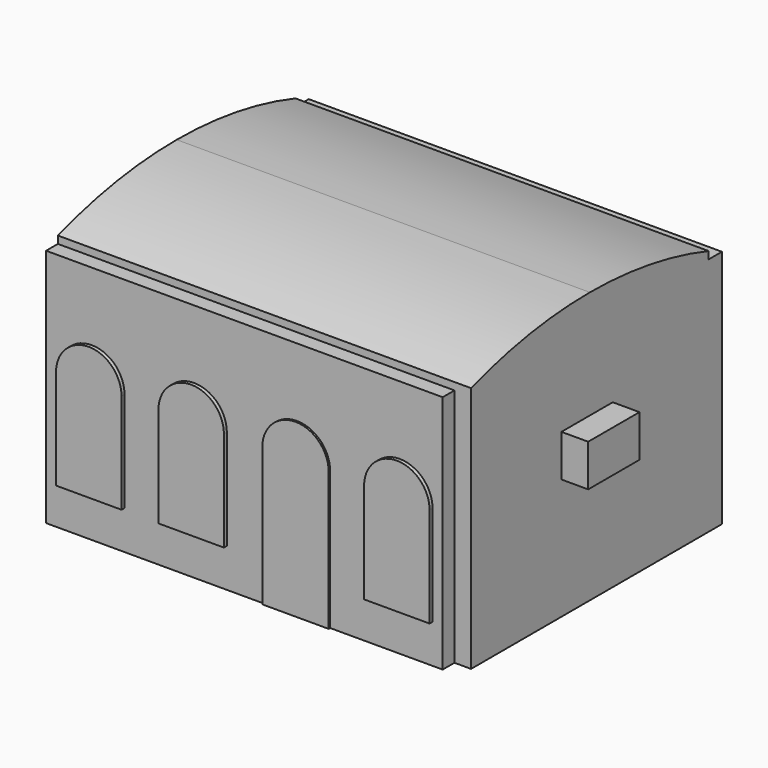
from build123d import *

# Parameters (mm, degrees)
F0_W      = 5689.6
F0_H      = 4521.2
F1_DEPTH  = 3302
F2_W      = 5689.6
F2_H      = 4089.4
F3_DEPTH  = 101.6
F5_DEPTH  = 5689.6
F6_W      = 882.65
F6_H      = 577.85
F7_DEPTH  = 368.3
F8_W      = 228.6
F8_H      = 3302
F9_DEPTH  = 203.2
F8_W_2    = 901.7
F8_H_2    = 1377.95
F10_DEPTH = 50.8
F8_W_3    = 914.4
F8_H_3    = 1905
F11_DEPTH = 25.4


with BuildPart() as f1:
    # F0 (on Top) → F1 (new body)
    with BuildSketch(Plane.XY):
        with Locations((134.867244, -15.715256)):
            Rectangle(F0_W, F0_H)
        with Locations((134.867244, -15.715256)):
            Rectangle(F0_W, F0_H)
    extrude(amount=F1_DEPTH)

    # F2 (on face) → F3 (join)
    with BuildSketch(Plane.XY.offset(3302)):
        with Locations((134.867244, -28.415256)):
            Rectangle(F2_W, F2_H)
    extrude(amount=F3_DEPTH)

    # F4 (on face) → F5 (join, through all)
    with BuildSketch(Plane.YZ.offset(2979.667244)):
        with BuildLine():
            Line((-28.415256, 3403.6), (2016.284744, 3403.6))
            ThreePointArc((2016.284744, 3403.6), (1007.179999, 3650.718695), (-28.415256, 3733.8))
            Line((-28.415256, 3733.8), (-28.415256, 3403.6))
        make_face()
        with BuildLine():
            Line((-28.415256, 3403.6), (-28.415256, 3733.8))
            ThreePointArc((-28.415256, 3733.8), (-1064.010511, 3650.718695), (-2073.115256, 3403.6))
            Line((-2073.115256, 3403.6), (-28.415256, 3403.6))
        make_face()
    extrude(amount=-F5_DEPTH)

    # F6 (on face) → F7 (join)
    with BuildSketch(Plane.YZ.offset(2979.667244)):
        with Locations((-76.040256, 1952.625)):
            Rectangle(F6_W, F6_H)
    extrude(amount=F7_DEPTH)

    # F8 (on face) → F9 (cut, through all)
    with BuildSketch(Plane.XZ.offset(2276.315256)):
        with Locations((2865.367244, 1651)):
            Rectangle(F8_W, F8_H)
    extrude(amount=-F9_DEPTH, mode=Mode.SUBTRACT)

    # F8 (on face) → F10 (join)
    with BuildSketch(Plane.XZ.offset(2276.315256)):
        with Locations((-2081.282756, 1222.375)):
            Rectangle(F8_W_2, F8_H_2)
        with BuildLine():
            ThreePointArc((-1630.432756, 1911.35), (-2081.282756, 2362.2), (-2532.132756, 1911.35))
            Line((-2532.132756, 1911.35), (-1630.432756, 1911.35))
        make_face()
        with Locations((-671.582756, 1222.375)):
            Rectangle(F8_W_2, F8_H_2)
        with BuildLine():
            ThreePointArc((-220.732756, 1911.35), (-671.582756, 2362.2), (-1122.432756, 1911.35))
            Line((-1122.432756, 1911.35), (-220.732756, 1911.35))
        make_face()
        with Locations((2160.517244, 1222.375)):
            Rectangle(F8_W_2, F8_H_2)
        with BuildLine():
            ThreePointArc((2611.367244, 1911.35), (2160.517244, 2362.2), (1709.667244, 1911.35))
            Line((1709.667244, 1911.35), (2611.367244, 1911.35))
        make_face()
    extrude(amount=F10_DEPTH)

    # F8 (on face) → F11 (join)
    with BuildSketch(Plane.XZ.offset(2276.315256)):
        with Locations((744.467244, 952.5)):
            Rectangle(F8_W_3, F8_H_3)
        with BuildLine():
            ThreePointArc((1201.667244, 1905), (744.467244, 2362.2), (287.267244, 1905))
            Line((287.267244, 1905), (1201.667244, 1905))
        make_face()
    extrude(amount=F11_DEPTH)


solid = f1.part
